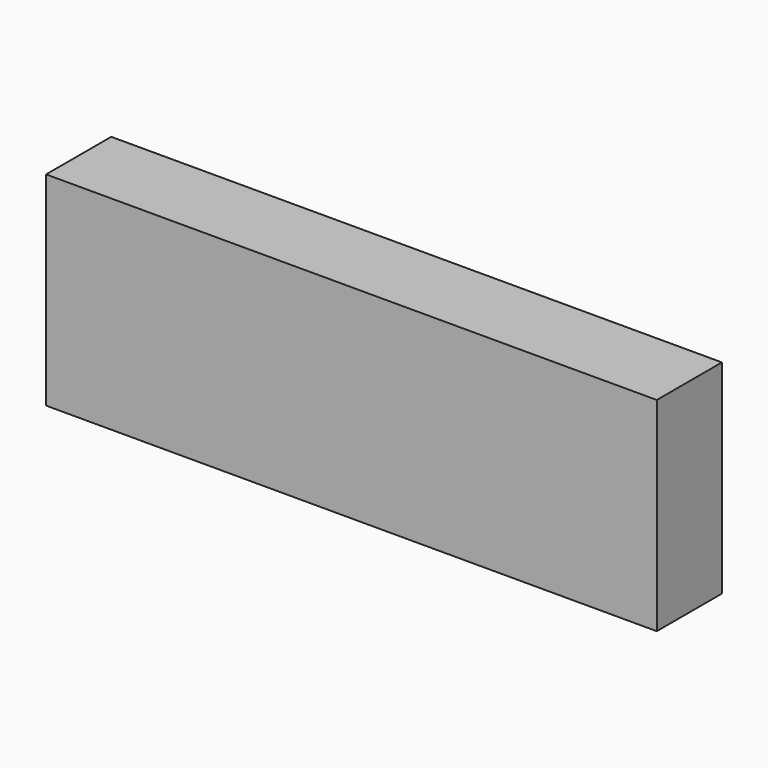
from build123d import *

# Parameters (mm, degrees)
SKETCH_W      = 150
SKETCH_H      = 20
EXTRUDE_DEPTH = 50


with BuildPart() as part:
    # Sketch → Extrude (new body)
    with BuildSketch(Plane.XY):
        Rectangle(SKETCH_W, SKETCH_H)
    extrude(amount=EXTRUDE_DEPTH)


solid = part.part
